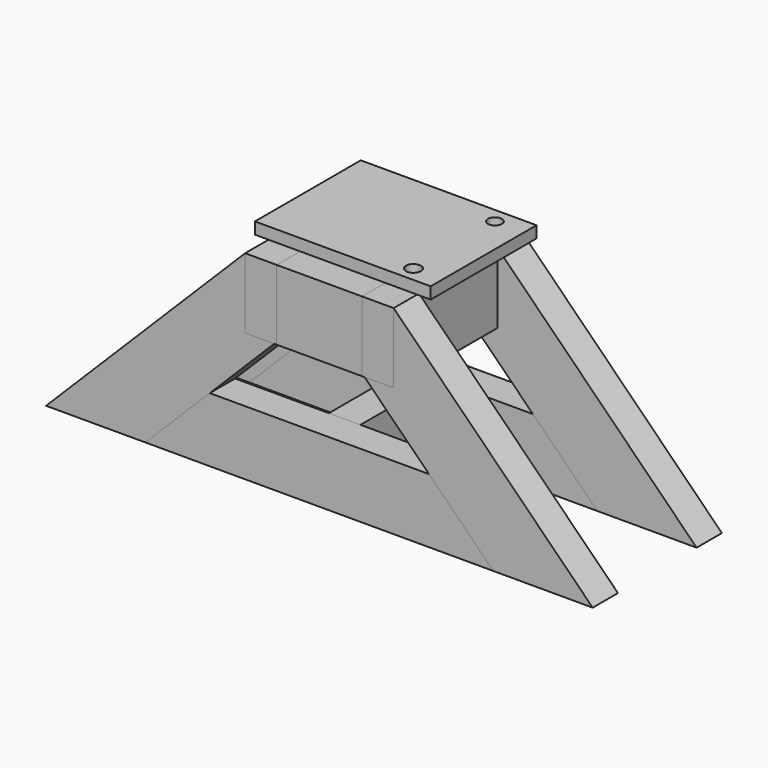
from build123d import *

# Parameters (mm, degrees)
F2_W      = 150
F2_H      = 27
F2_R      = 5.9222192763
F3_DEPTH  = 60
F2_R_2    = 6.3674200107
F4_W      = 150.093134014
F4_H      = 113
F4_R      = 5.9222192763
F4_R_2    = 6.3674200107
F5_DEPTH  = 10
F7_W      = 27
F7_H      = 138
F8_DEPTH  = 60
F10_DEPTH = 27
F12_DEPTH = 27
F14_DEPTH = 27
F17_W     = 27
F17_H     = 55
F18_DEPTH = 84
F19_W     = 27
F19_H     = 60
F20_DEPTH = 72.906865986


with BuildPart() as f3:
    # F2 (on Top) → F3 (new body)
    with BuildSketch(Plane.XY):
        with Locations((-50.4420745202, 49.6641933283)):
            Rectangle(F2_W, F2_H)
        with Locations((-0.4420745202, 50.1641933283)):
            Circle(F2_R, mode=Mode.SUBTRACT)
    extrude(amount=F3_DEPTH)


with BuildPart() as f3b:
    # F2 (on Top) → F3, piece 2 (new body)
    with BuildSketch(Plane.XY):
        with Locations((-50.4420745202, -36.3358066717)):
            Rectangle(F2_W, F2_H)
        with Locations((-0.4420745202, -36.8358066717)):
            Circle(F2_R_2, mode=Mode.SUBTRACT)
    extrude(amount=F3_DEPTH)


with BuildPart() as f5:
    # F4 (on face) → F5 (new body)
    with BuildSketch(Plane(origin=(0, 0, 0), x_dir=(1, 0, 0), z_dir=(0, 0, -1))):
        with Locations((-50.3955075132, -6.6641933283)):
            Rectangle(F4_W, F4_H)
        with Locations((-0.4420745202, -50.1641933283)):
            Circle(F4_R, mode=Mode.SUBTRACT)
        with Locations((-0.4420745202, 36.8358066717)):
            Circle(F4_R_2, mode=Mode.SUBTRACT)
    extrude(amount=F5_DEPTH)


with BuildPart() as f8:
    # F7 (on face) → F8 (new body)
    with BuildSketch(Plane(origin=(0, 0, -10), x_dir=(1, 0, 0), z_dir=(0, 0, -1))):
        with Locations((-0.4420745202, 5.8358066717)):
            Rectangle(F7_W, F7_H)
    extrude(amount=F8_DEPTH)


with BuildPart() as f8b:
    # F7 (on face) → F8, piece 2 (new body)
    with BuildSketch(Plane(origin=(0, 0, -10), x_dir=(1, 0, 0), z_dir=(0, 0, -1))):
        with Locations((-100.3489405062, 5.8358066717)):
            Rectangle(F7_W, F7_H)
    extrude(amount=F8_DEPTH)


with BuildPart() as f10:
    # F9 (on face) → F10 (new body)
    with BuildSketch(Plane.XZ.offset(74.8358066717)):
        Polygon((183.0579254798, -180), (13.0579254798, -10), (13.0579254798, -70), (-11.7948882626, -70), (98.2051117374, -180), align=None)
    extrude(amount=-F10_DEPTH)


with BuildPart() as f12:
    # F11 (on face) → F12 (new body)
    with BuildSketch(Plane.XZ.offset(74.8358066717)):
        Polygon((-113.8489405062, -70), (-113.8489405062, -10), (-283.8489405062, -180), (-198.9961267638, -180), (-88.9961267638, -70), align=None)
    extrude(amount=-F12_DEPTH)


with BuildPart() as f14:
    # F13 (on face) → F14 (new body)
    with BuildSketch(Plane.XZ.offset(74.8358066717)):
        Polygon((-143.9961267638, -125), (-198.9961267638, -180), (98.2048732362, -180), (43.2048732362, -125), align=None)
    extrude(amount=-F14_DEPTH)


with BuildPart() as f16_1:
    # F16: instance of F12
    add(f12.part.mirror(Plane(origin=(-50.3956267638, -5.8358066717, -154.5816043974), x_dir=(1, 0, 0), z_dir=(0, -1, 0))))


with BuildPart() as f16_2:
    # F16: instance of F14
    add(f14.part.mirror(Plane(origin=(-50.3956267638, -5.8358066717, -154.5816043974), x_dir=(1, 0, 0), z_dir=(0, -1, 0))))


with BuildPart() as f16_3:
    # F16: instance of F10
    add(f10.part.mirror(Plane(origin=(-50.3956267638, -5.8358066717, -154.5816043974), x_dir=(1, 0, 0), z_dir=(0, -1, 0))))


with BuildPart() as f18:
    # F17 (on face) → F18 (new body, through all)
    with BuildSketch(Plane.XZ.offset(-36.1641933283)):
        with Locations((-50.3956267638, -152.5)):
            Rectangle(F17_W, F17_H)
    extrude(amount=F18_DEPTH)


with BuildPart() as f20:
    # F19 (on face) → F20 (new body, through all)
    with BuildSketch(Plane(origin=(-13.9420745202, 0, 0), x_dir=(0, -1, 0), z_dir=(-1, 0, 0))):
        with Locations((61.3358066717, -40)):
            Rectangle(F19_W, F19_H)
    extrude(amount=F20_DEPTH)


with BuildPart() as f20b:
    # F19 (on face) → F20, piece 2 (new body, through all)
    with BuildSketch(Plane(origin=(-13.9420745202, 0, 0), x_dir=(0, -1, 0), z_dir=(-1, 0, 0))):
        with Locations((-49.6641933283, -40)):
            Rectangle(F19_W, F19_H)
    extrude(amount=F20_DEPTH)


solid = Compound([f5.part, f8.part, f8b.part, f10.part, f12.part, f14.part, f16_1.part, f16_2.part, f16_3.part, f18.part, f20.part, f20b.part])
